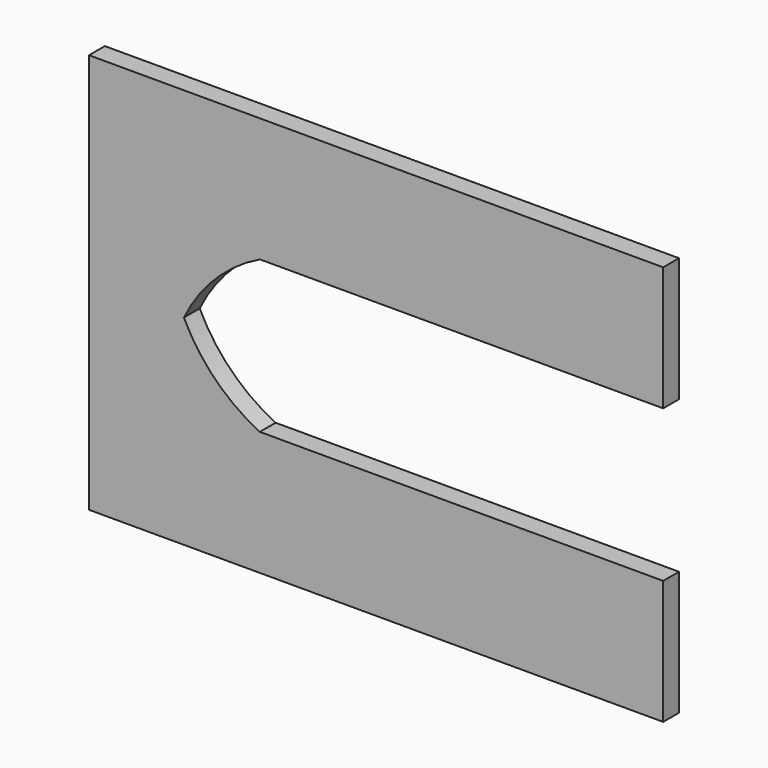
from build123d import *

# Parameters (mm, degrees)
F0_W     = 3630
F0_H     = 1265
F1_DEPTH = 125
F3_DEPTH = 125
F5_DEPTH = 125
F7_DEPTH = 125


with BuildPart() as f1:
    # F0 (on Front) → F1 (new body)
    with BuildSketch(Plane.XZ):
        with Locations((22.100514, -449.006776)):
            Rectangle(F0_W, F0_H)
    extrude(amount=F1_DEPTH)

    # F2 (on face) → F3 (cut, through all)
    with BuildSketch(Plane(origin=(0, 0, 0), x_dir=(-1, 0, 0), z_dir=(0, 1, 0))):
        Polygon((1192.899486, 183.493224), (-1237.100514, 183.493224), (-757.100514, -296.506776), (712.899486, -296.506776), align=None)
    extrude(amount=-F3_DEPTH, mode=Mode.SUBTRACT)

    # F4 (on face) → F5 (cut, through all)
    with BuildSketch(Plane.XZ.offset(125)):
        Polygon((1237.100514, 183.493224), (757.100514, -296.506776), (1837.100514, -296.506776), (1837.100514, 183.493224), align=None)
    extrude(amount=-F5_DEPTH, mode=Mode.SUBTRACT)

    # F6 (on face) → F7 (cut, through all)
    with BuildSketch(Plane.XZ.offset(125)):
        with BuildLine():
            Line((-712.899486, -296.506776), (-1192.899486, 183.493224))
            ThreePointArc((-1192.899486, 183.493224), (-993.471042, -97.078331), (-712.899486, -296.506776))
        make_face()
    extrude(amount=-F7_DEPTH, mode=Mode.SUBTRACT)

    # F8: F1 across face


with BuildPart() as f1_1:
    add(f1.part)
    add(f1.part.mirror(Plane(origin=(-1492.899486, -62.5, 183.493224), x_dir=(1, 0, 0), z_dir=(0, 0, 1))))


solid = f1_1.part
